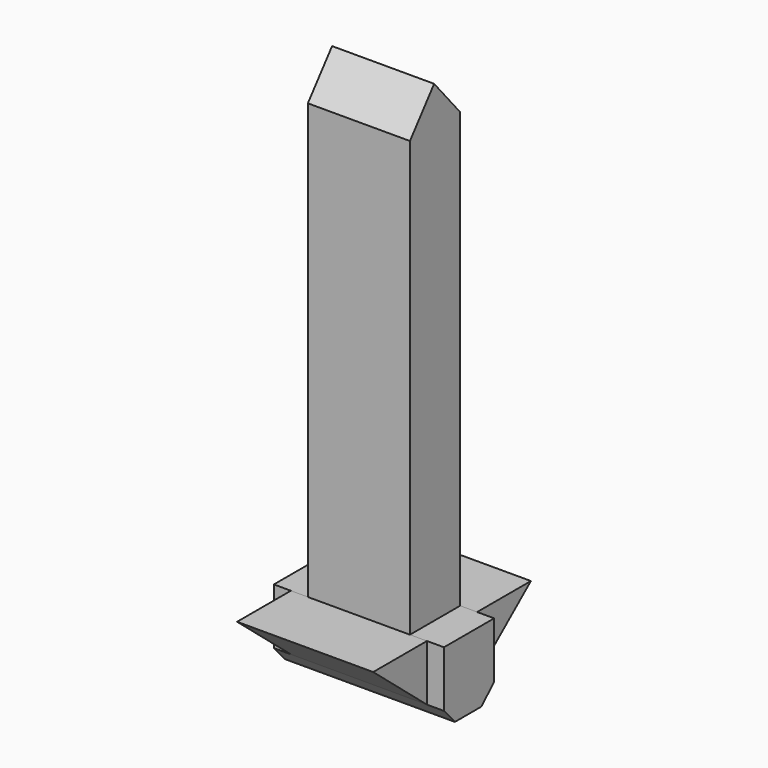
from build123d import *

# Parameters (mm, degrees)
F1_DEPTH = 7.5
F2_DEPTH = 10
F3_DEPTH = 12.5


with BuildPart() as f1:
    # F0 (on Right) → F1 (new body, symmetric)
    with BuildSketch(Plane.YZ):
        Polygon((0, 62.39463), (-4.444998, 56.797221), (-4.444998, -7.079074), (4.774259, -7.079074), (4.774259, 56.797221), align=None)
    extrude(amount=F1_DEPTH, both=True)


with BuildPart() as f2:
    # F0 (on Right) → F2 (new body, symmetric)
    with BuildSketch(Plane.YZ):
        Polygon((-4.444998, -15.310556), (-4.444998, -7.079074), (-14.322778, -7.079074), align=None)
        Polygon((14.652036, -7.079074), (4.774259, -7.079074), (4.774259, -15.310556), align=None)
    extrude(amount=F2_DEPTH, both=True)


with BuildPart() as f3:
    # F0 (on Right) → F3 (new body, symmetric)
    with BuildSketch(Plane.YZ):
        Polygon((4.774259, -7.079074), (-4.444998, -7.079074), (-4.444998, -15.310556), (-2.432911, -17.554464), (2.416329, -17.554464), (4.774259, -15.310556), align=None)
    extrude(amount=F3_DEPTH, both=True)


solid = Compound([f1.part, f2.part, f3.part])
